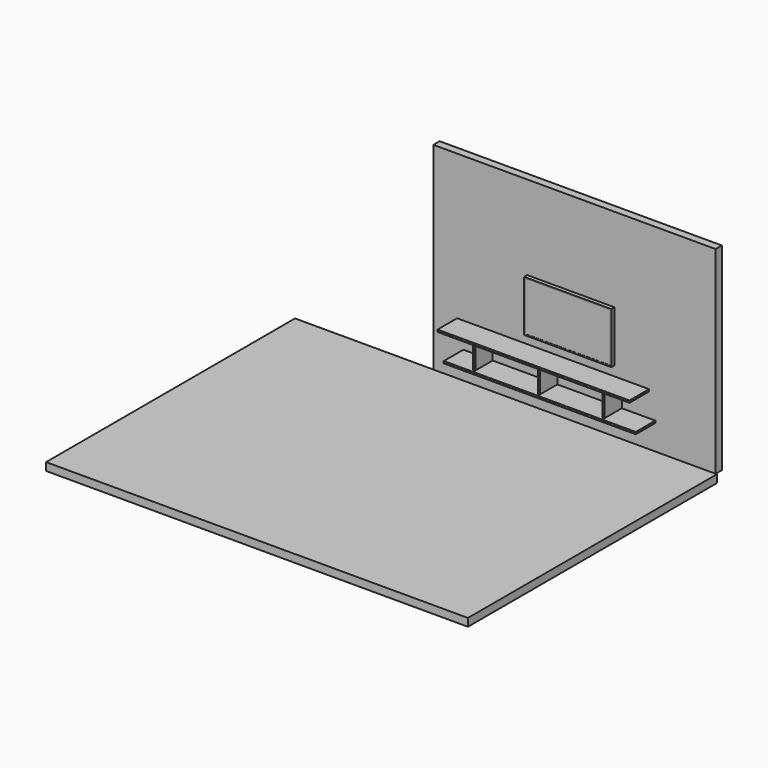
from build123d import *

# Parameters (mm, degrees)
F0_W      = 3610
F0_H      = 2530
F1_DEPTH  = 100
F2_W      = 5394.867659
F2_H      = 3978.996754
F3_DEPTH  = 100
F4_W      = 1116
F4_H      = 654
F5_DEPTH  = 50
F6_W      = 1086
F6_H      = 624
F7_DEPTH  = 2
F8_W      = 2460
F8_H      = 28
F9_DEPTH  = 315
F10_W     = 28
F10_H     = 300
F11_DEPTH = 280
F12_R     = 5
F13_R     = 5


with BuildPart() as f1:
    # F0 (on Front) → F1 (new body)
    with BuildSketch(Plane.XZ):
        with Locations((0, 1265)):
            Rectangle(F0_W, F0_H)
    extrude(amount=-F1_DEPTH)

    # F2 (on Top) → F3 (join)
    with BuildSketch(Plane.XY):
        with Locations((-877.25532, -1989.498377)):
            Rectangle(F2_W, F2_H)
    extrude(amount=-F3_DEPTH)


with BuildPart() as f5:
    # F4 (on face) → F5 (new body)
    with BuildSketch(Plane.XZ):
        with Locations((-47, 1127)):
            Rectangle(F4_W, F4_H)
    extrude(amount=F5_DEPTH)

    # F6 (on face) → F7 (cut)
    with BuildSketch(Plane.XZ.offset(50)):
        with Locations((-47, 1127)):
            Rectangle(F6_W, F6_H)
    extrude(amount=-F7_DEPTH, mode=Mode.SUBTRACT)


with BuildPart() as f9:
    # F8 (on face) → F9 (new body)
    with BuildSketch(Plane.XZ):
        with Locations((-275, 662)):
            Rectangle(F8_W, F8_H)
        with Locations((-194.327097, 334)):
            Rectangle(F8_W, F8_H)
    extrude(amount=F9_DEPTH)

    # F12
    f12_edges = [f9.edges().sort_by_distance(p)[0] for p in [
        (-1505, -315, 662),
        (-1505, -157.5, 676),
        (-1505, -157.5, 648),
        (-275, -315, 648),
        (-275, -315, 676),
        (-1424.327097, -157.5, 348),
        (-1424.327097, -157.5, 320),
        (-1424.327097, -315, 334),
        (-194.327097, -315, 320),
        (955, -157.5, 676),
        (1035.672903, -315, 334),
        (1035.672903, -157.5, 320),
        (1035.672903, -157.5, 348),
        (955, -157.5, 648),
        (955, -315, 662),
        (-194.327097, -315, 348),
    ]]
    fillet(f12_edges, radius=F12_R)


with BuildPart() as f11:
    # F10 (on face) → F11 (new body)
    with BuildSketch(Plane.XZ):
        with Locations((-1060.327097, 498)):
            Rectangle(F10_W, F10_H)
        with Locations((591, 498)):
            Rectangle(F10_W, F10_H)
        with Locations((-233.42569, 498)):
            Rectangle(F10_W, F10_H)
    extrude(amount=F11_DEPTH)

    # F13
    f13_edges = [f11.edges().sort_by_distance(p)[0] for p in [
        (-1074.327097, -280, 498),
        (-247.42569, -280, 498),
        (577, -280, 498),
        (-1046.327097, -280, 498),
        (-219.42569, -280, 498),
        (605, -280, 498),
    ]]
    fillet(f13_edges, radius=F13_R)


solid = Compound([f1.part, f5.part, f9.part, f11.part])
